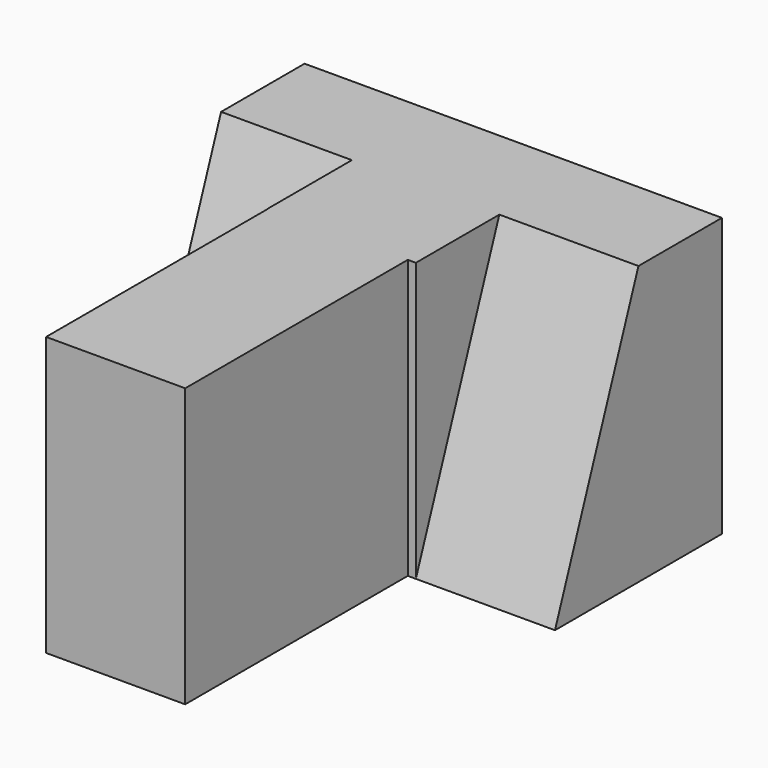
from build123d import *

# Parameters (mm, degrees)
F1_DEPTH = 25.4
F3_DEPTH = 11.938
F5_DEPTH = 12.7


with BuildPart() as f1:
    # F0 (on Top) → F1 (new body)
    with BuildSketch(Plane.XY):
        Polygon((0, 25.4), (0, 0), (12.699998, 0), (12.699998, 25.4), (26.136232, 25.4), (26.136232, 44.45), (-11.963768, 44.45), (-11.963768, 25.4), align=None)
    extrude(amount=F1_DEPTH)

    # F2 (on face) → F3 (cut)
    with BuildSketch(Plane(origin=(-11.963768, 0, 0), x_dir=(0, -1, 0), z_dir=(-1, 0, 0))):
        Polygon((-34.925, 25.4), (-25.4, 0), (-25.4, 25.4), align=None)
    extrude(amount=-F3_DEPTH, mode=Mode.SUBTRACT)

    # F4 (on face) → F5 (cut)
    with BuildSketch(Plane.YZ.offset(26.136232)):
        Polygon((25.4, 25.4), (25.4, 0), (34.925, 25.4), align=None)
    extrude(amount=-F5_DEPTH, mode=Mode.SUBTRACT)


solid = f1.part
